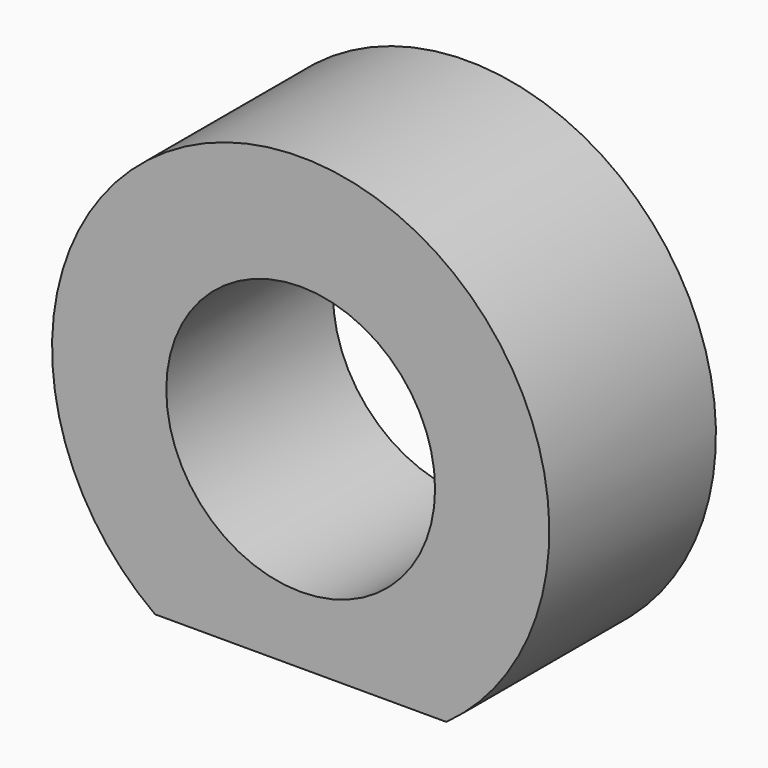
from build123d import *

# Parameters (mm, degrees)
F0_R     = 10
F1_DEPTH = 15.5
F2_R     = 1
F3_DEPTH = 3


with BuildPart() as f1:
    # F0 (on Front) → F1 (new body)
    with BuildSketch(Plane.XZ):
        with BuildLine():
            Line((-10.84, -14.991478), (10.84, -14.991478))
            ThreePointArc((10.84, -14.991478), (0, 18.5), (-10.84, -14.991478))
        make_face()
        Circle(F0_R, mode=Mode.SUBTRACT)
    extrude(amount=F1_DEPTH)

    # F2 (on face) → F3 (cut)
    with BuildSketch(Plane(origin=(0, 0, -14.991478), x_dir=(1, 0, 0), z_dir=(0, 0, -1))):
        with Locations((0, 7.75)):
            Circle(F2_R)
    extrude(amount=-F3_DEPTH, mode=Mode.SUBTRACT)


solid = f1.part
